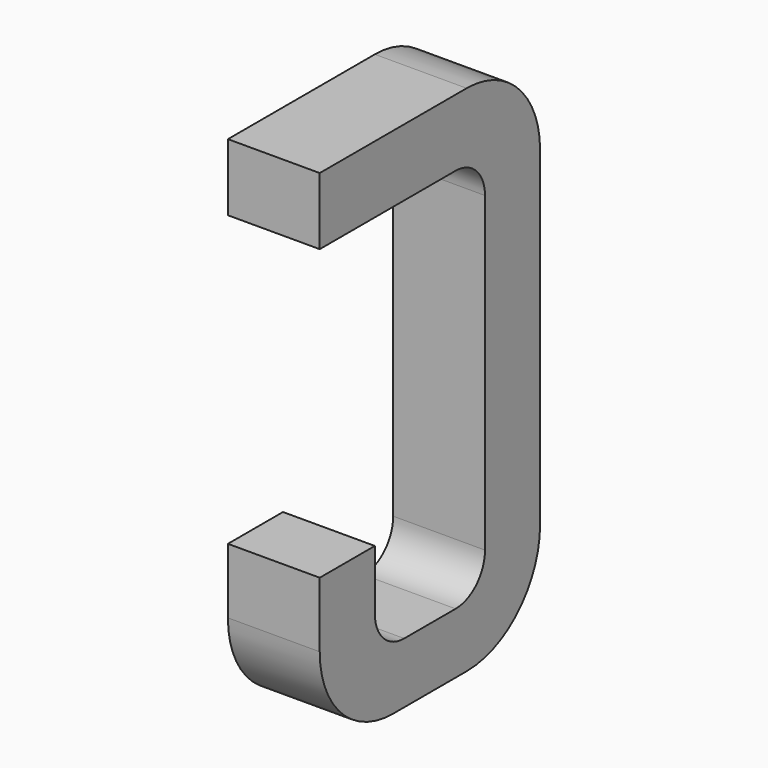
from build123d import *

# Parameters (mm, degrees)
BOX051_W     = 0.5
BOX051_H     = 1.5
BOX051_DEPTH = 2.795
FILLET114_R  = 0.5
FILLET112_R  = 0.5
FILLET118_R  = 0.5
BOX049_W     = 0.75
BOX049_H     = 2.1
BOX049_DEPTH = 1
FILLET117_R  = 0.2
FILLET113_R  = 0.2
FILLET115_R  = 0.2
FILLET116_R  = 0.2
BOX050_W     = 1
BOX050_H     = 1.575
BOX050_DEPTH = 3


with BuildPart() as part:
    # Box051 → Box051 (join)
    with BuildSketch(Plane(origin=(-0.25, 11.125, 0), x_dir=(1, 0, 0), z_dir=(0, 0, 1))):
        with Locations((0.25, 0.75)):
            Rectangle(BOX051_W, BOX051_H)
    extrude(amount=BOX051_DEPTH)

    # Fillet114
    fillet114_edges = [part.edges().sort_by_distance(p)[0] for p in [
        (0, 12.625, 0),
    ]]
    fillet(fillet114_edges, radius=FILLET114_R)

    # Fillet112
    fillet112_edges = [part.edges().sort_by_distance(p)[0] for p in [
        (0, 12.625, 2.795),
    ]]
    fillet(fillet112_edges, radius=FILLET112_R)

    # Fillet118
    fillet118_edges = [part.edges().sort_by_distance(p)[0] for p in [
        (0, 11.125, 0),
    ]]
    fillet(fillet118_edges, radius=FILLET118_R)

    # Box049 → Box049 (cut)
    with BuildSketch(Plane(origin=(-0.5, 11.5, 0.33), x_dir=(0, 1, 0), z_dir=(1, 0, 0))):
        with Locations((0.375, 1.05)):
            Rectangle(BOX049_W, BOX049_H)
    extrude(amount=BOX049_DEPTH, mode=Mode.SUBTRACT)

    # Fillet117
    fillet117_edges = [part.edges().sort_by_distance(p)[0] for p in [
        (0, 11.5, 0.33),
    ]]
    fillet(fillet117_edges, radius=FILLET117_R)

    # Fillet113
    fillet113_edges = [part.edges().sort_by_distance(p)[0] for p in [
        (0, 12.25, 0.33),
    ]]
    fillet(fillet113_edges, radius=FILLET113_R)

    # Fillet115
    fillet115_edges = [part.edges().sort_by_distance(p)[0] for p in [
        (0, 11.5, 2.43),
    ]]
    fillet(fillet115_edges, radius=FILLET115_R)

    # Fillet116
    fillet116_edges = [part.edges().sort_by_distance(p)[0] for p in [
        (0, 12.25, 2.43),
    ]]
    fillet(fillet116_edges, radius=FILLET116_R)

    # Box050 → Box050 (cut)
    with BuildSketch(Plane(origin=(-1, 11, 0.855), x_dir=(0, 1, 0), z_dir=(1, 0, 0))):
        with Locations((0.5, 0.7875)):
            Rectangle(BOX050_W, BOX050_H)
    extrude(amount=BOX050_DEPTH, mode=Mode.SUBTRACT)


with BuildPart() as part_1:
    # Body017 placement: moved
    add(part.part.moved(Location((10.16, 0, 0))))


solid = part_1.part
